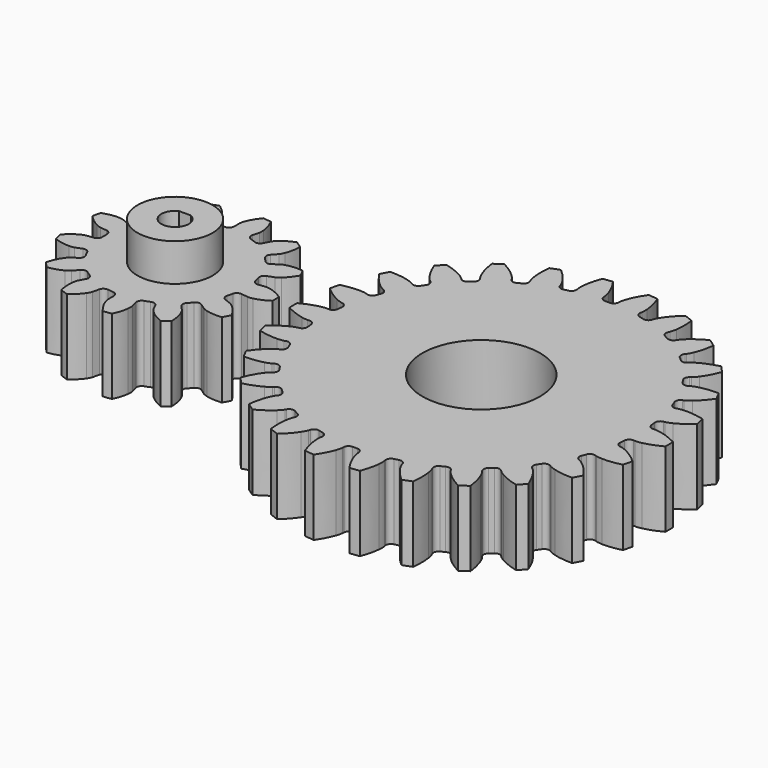
from build123d import *

# Parameters (mm, degrees)
PAD_DEPTH       = 14
SKETCH_R        = 7
PAD001_DEPTH    = 7
POCKET_DEPTH    = 25
PAD002_DEPTH    = 14
SKETCH003_R     = 10.95
POCKET002_DEPTH = 14


with BuildPart() as pocket:
    # InvoluteGear → Pad (new body)
    with BuildSketch(Plane.XY):
        with BuildLine():
            Line((13.902158, -1.898682), (15.169847, -2.069797))
            add(Edge.make_bspline(
                [(15.169847, -2.069797), (15.274932, -2.076474), (15.590573, -2.081535), (16.120308, -1.961703)],
                knots=[0, 0, 0, 0, 1, 1, 1, 1], degree=3))
            add(Edge.make_bspline(
                [(16.120308, -1.961703), (16.751481, -1.815558), (17.651998, -1.493243), (18.736578, -0.791187)],
                knots=[0, 0, 0, 0, 1, 1, 1, 1], degree=3))
            ThreePointArc((18.736578, -0.791187), (18.753278, 0), (18.736578, 0.791187))
            add(Edge.make_bspline(
                [(18.736578, 0.791187), (17.651998, 1.493243), (16.751481, 1.815558), (16.120308, 1.961703)],
                knots=[0, 0, 0, 0, 1, 1, 1, 1], degree=3))
            add(Edge.make_bspline(
                [(16.120308, 1.961703), (15.590573, 2.081535), (15.274932, 2.076474), (15.169847, 2.069797)],
                knots=[0, 0, 0, 0, 1, 1, 1, 1], degree=3))
            Line((15.169847, 2.069797), (13.902158, 1.898682))
            ThreePointArc((13.902158, 1.898682), (13.234191, 2.061979), (12.857334, 2.637153))
            ThreePointArc((12.857334, 2.637153), (12.743611, 3.141018), (12.61015, 3.640018))
            ThreePointArc((12.61015, 3.640018), (12.676544, 4.324444), (13.192112, 4.779455))
            Line((13.192112, 4.779455), (14.394116, 5.217065))
            add(Edge.make_bspline(
                [(14.394116, 5.217065), (14.490266, 5.259989), (14.772105, 5.402193), (15.185473, 5.754479)],
                knots=[0, 0, 0, 0, 1, 1, 1, 1], degree=3))
            add(Edge.make_bspline(
                [(15.185473, 5.754479), (15.676431, 6.177205), (16.324012, 6.881092), (16.958099, 8.006761)],
                knots=[0, 0, 0, 0, 1, 1, 1, 1], degree=3))
            ThreePointArc((16.958099, 8.006761), (16.605203, 8.715083), (16.222733, 9.407883))
            add(Edge.make_bspline(
                [(16.222733, 9.407883), (14.936123, 9.525493), (13.988968, 9.392398), (13.362175, 9.228483)],
                knots=[0, 0, 0, 0, 1, 1, 1, 1], degree=3))
            add(Edge.make_bspline(
                [(13.362175, 9.228483), (12.83743, 9.088409), (12.560295, 8.937241), (12.47035, 8.882494)],
                knots=[0, 0, 0, 0, 1, 1, 1, 1], degree=3))
            Line((12.47035, 8.882494), (11.427388, 8.141855))
            ThreePointArc((11.427388, 8.141855), (10.760045, 7.976027), (10.159058, 8.310184))
            ThreePointArc((10.159058, 8.310184), (9.824204, 8.703485), (9.474133, 9.083305))
            ThreePointArc((9.474133, 9.083305), (9.214853, 9.720188), (9.459911, 10.362677))
            Line((9.459911, 10.362677), (10.320865, 11.308761))
            add(Edge.make_bspline(
                [(10.320865, 11.308761), (10.386055, 11.391451), (10.569525, 11.648344), (10.771829, 12.152379)],
                knots=[0, 0, 0, 0, 1, 1, 1, 1], degree=3))
            add(Edge.make_bspline(
                [(10.771829, 12.152379), (11.0101, 12.754844), (11.256392, 13.679051), (11.294723, 14.970456)],
                knots=[0, 0, 0, 0, 1, 1, 1, 1], degree=3))
            ThreePointArc((11.294723, 14.970456), (10.653076, 15.433646), (9.992456, 15.869347))
            add(Edge.make_bspline(
                [(9.992456, 15.869347), (8.798563, 15.375568), (8.021751, 14.817553), (7.542929, 14.381128)],
                knots=[0, 0, 0, 0, 1, 1, 1, 1], degree=3))
            add(Edge.make_bspline(
                [(7.542929, 14.381128), (7.143385, 14.013237), (6.968246, 13.750594), (6.914046, 13.660319)],
                knots=[0, 0, 0, 0, 1, 1, 1, 1], degree=3))
            Line((6.914046, 13.660319), (6.334741, 12.519827))
            ThreePointArc((6.334741, 12.519827), (5.820902, 12.062863), (5.133464, 12.079452))
            ThreePointArc((5.133464, 12.079452), (4.654189, 12.272088), (4.167705, 12.445716))
            ThreePointArc((4.167705, 12.445716), (3.64215, 12.889155), (3.560559, 13.571935))
            Line((3.560559, 13.571935), (3.883229, 14.809756))
            add(Edge.make_bspline(
                [(3.883229, 14.809756), (3.902523, 14.913269), (3.945594, 15.225999), (3.890489, 15.766316)],
                knots=[0, 0, 0, 0, 1, 1, 1, 1], degree=3))
            add(Edge.make_bspline(
                [(3.890489, 15.766316), (3.821488, 16.410502), (3.610068, 17.343304), (3.043863, 18.5046)],
                knots=[0, 0, 0, 0, 1, 1, 1, 1], degree=3))
            ThreePointArc((3.043863, 18.5046), (2.260458, 18.616546), (1.473027, 18.695334))
            add(Edge.make_bspline(
                [(1.473027, 18.695334), (0.645358, 17.703285), (0.216848, 16.848185), (-0.004312, 16.23923)],
                knots=[0, 0, 0, 0, 1, 1, 1, 1], degree=3))
            add(Edge.make_bspline(
                [(-0.004312, 16.23923), (-0.187122, 15.727802), (-0.220144, 15.413852), (-0.226183, 15.308729)],
                knots=[0, 0, 0, 0, 1, 1, 1, 1], degree=3))
            Line((-0.226183, 15.308729), (-0.209119, 14.029657))
            ThreePointArc((-0.209119, 14.029657), (-0.451739, 13.386243), (-1.068145, 13.081464))
            ThreePointArc((-1.068145, 13.081464), (-1.582044, 13.029304), (-2.093493, 12.956964))
            ThreePointArc((-2.093493, 12.956964), (-2.764925, 13.105372), (-3.154474, 13.672026))
            Line((-3.154474, 13.672026), (-3.444008, 14.918014))
            add(Edge.make_bspline(
                [(-3.444008, 14.918014), (-3.475029, 15.018637), (-3.582224, 15.315562), (-3.882116, 15.76838)],
                knots=[0, 0, 0, 0, 1, 1, 1, 1], degree=3))
            add(Edge.make_bspline(
                [(-3.882116, 15.76838), (-4.242581, 16.306712), (-4.863279, 17.034416), (-5.90431, 17.799564)],
                knots=[0, 0, 0, 0, 1, 1, 1, 1], degree=3))
            ThreePointArc((-5.90431, 17.799564), (-6.650004, 17.53462), (-7.383854, 17.238446))
            add(Edge.make_bspline(
                [(-7.383854, 17.238446), (-7.655691, 15.975393), (-7.637733, 15.019101), (-7.550564, 14.377121)],
                knots=[0, 0, 0, 0, 1, 1, 1, 1], degree=3))
            add(Edge.make_bspline(
                [(-7.550564, 14.377121), (-7.474763, 13.839317), (-7.358102, 13.545982), (-7.314596, 13.450093)],
                knots=[0, 0, 0, 0, 1, 1, 1, 1], degree=3))
            Line((-7.314596, 13.450093), (-6.705072, 12.325462))
            ThreePointArc((-6.705072, 12.325462), (-6.620893, 11.642996), (-7.025054, 11.086669))
            ThreePointArc((-7.025054, 11.086669), (-7.45585, 10.801663), (-7.875097, 10.499927))
            ThreePointArc((-7.875097, 10.499927), (-8.538589, 10.319306), (-9.146856, 10.64002))
            Line((-9.146856, 10.64002), (-9.982264, 11.608735))
            add(Edge.make_bspline(
                [(-9.982264, 11.608735), (-10.056494, 11.683416), (-10.289399, 11.896514), (-10.765374, 12.158098)],
                knots=[0, 0, 0, 0, 1, 1, 1, 1], degree=3))
            add(Edge.make_bspline(
                [(-10.765374, 12.158098), (-11.334726, 12.467251), (-12.222507, 12.823148), (-13.499876, 13.016861)],
                knots=[0, 0, 0, 0, 1, 1, 1, 1], degree=3))
            ThreePointArc((-13.499876, 13.016861), (-14.03703, 12.435724), (-14.549184, 11.832438))
            add(Edge.make_bspline(
                [(-14.549184, 11.832438), (-14.202913, 10.587732), (-13.742601, 9.749322), (-13.367074, 9.221386)],
                knots=[0, 0, 0, 0, 1, 1, 1, 1], degree=3))
            add(Edge.make_bspline(
                [(-13.367074, 9.221386), (-13.050025, 8.780411), (-12.810407, 8.574891), (-12.727323, 8.510204)],
                knots=[0, 0, 0, 0, 1, 1, 1, 1], degree=3))
            Line((-12.727323, 8.510204), (-11.664974, 7.797652))
            ThreePointArc((-11.664974, 7.797652), (-11.273279, 7.232479), (-11.372609, 6.552053))
            ThreePointArc((-11.372609, 6.552053), (-11.62161, 6.099492), (-11.852612, 5.637483))
            ThreePointArc((-11.852612, 5.637483), (-12.356166, 5.169211), (-13.043802, 5.170514))
            Line((-13.043802, 5.170514), (-14.233704, 5.640035))
            add(Edge.make_bspline(
                [(-14.233704, 5.640035), (-14.334137, 5.671665), (-14.639396, 5.752118), (-15.182415, 5.762542)],
                knots=[0, 0, 0, 0, 1, 1, 1, 1], degree=3))
            add(Edge.make_bspline(
                [(-15.182415, 5.762542), (-15.830222, 5.771693), (-16.781706, 5.674251), (-18.002784, 5.252153)],
                knots=[0, 0, 0, 0, 1, 1, 1, 1], degree=3))
            ThreePointArc((-18.002784, 5.252153), (-18.208342, 4.487953), (-18.381471, 3.715761))
            add(Edge.make_bspline(
                [(-18.381471, 3.715761), (-17.496419, 2.774548), (-16.699204, 2.246091), (-16.121348, 1.953143)],
                knots=[0, 0, 0, 0, 1, 1, 1, 1], degree=3))
            add(Edge.make_bspline(
                [(-16.121348, 1.953143), (-15.635684, 1.710019), (-15.328003, 1.639395), (-15.224374, 1.620729)],
                knots=[0, 0, 0, 0, 1, 1, 1, 1], degree=3))
            Line((-15.224374, 1.620729), (-13.952571, 1.483494))
            ThreePointArc((-13.952571, 1.483494), (-13.343094, 1.165088), (-13.114836, 0.51644))
            ThreePointArc((-13.114836, 0.51644), (-13.125, 0), (-13.114836, -0.51644))
            ThreePointArc((-13.114836, -0.51644), (-13.343094, -1.165088), (-13.952571, -1.483494))
            Line((-13.952571, -1.483494), (-15.224374, -1.620729))
            add(Edge.make_bspline(
                [(-15.224374, -1.620729), (-15.328003, -1.639395), (-15.635684, -1.710019), (-16.121348, -1.953143)],
                knots=[0, 0, 0, 0, 1, 1, 1, 1], degree=3))
            add(Edge.make_bspline(
                [(-16.121348, -1.953143), (-16.699204, -2.246091), (-17.496419, -2.774548), (-18.381471, -3.715761)],
                knots=[0, 0, 0, 0, 1, 1, 1, 1], degree=3))
            ThreePointArc((-18.381471, -3.715761), (-18.208342, -4.487953), (-18.002784, -5.252153))
            add(Edge.make_bspline(
                [(-18.002784, -5.252153), (-16.781706, -5.674251), (-15.830222, -5.771693), (-15.182415, -5.762542)],
                knots=[0, 0, 0, 0, 1, 1, 1, 1], degree=3))
            add(Edge.make_bspline(
                [(-15.182415, -5.762542), (-14.639396, -5.752118), (-14.334137, -5.671665), (-14.233704, -5.640035)],
                knots=[0, 0, 0, 0, 1, 1, 1, 1], degree=3))
            Line((-14.233704, -5.640035), (-13.043802, -5.170514))
            ThreePointArc((-13.043802, -5.170514), (-12.356166, -5.169211), (-11.852612, -5.637483))
            ThreePointArc((-11.852612, -5.637483), (-11.62161, -6.099492), (-11.372609, -6.552053))
            ThreePointArc((-11.372609, -6.552053), (-11.273279, -7.232479), (-11.664974, -7.797652))
            Line((-11.664974, -7.797652), (-12.727323, -8.510204))
            add(Edge.make_bspline(
                [(-12.727323, -8.510204), (-12.810407, -8.574891), (-13.050025, -8.780411), (-13.367074, -9.221386)],
                knots=[0, 0, 0, 0, 1, 1, 1, 1], degree=3))
            add(Edge.make_bspline(
                [(-13.367074, -9.221386), (-13.742601, -9.749322), (-14.202913, -10.587732), (-14.549184, -11.832438)],
                knots=[0, 0, 0, 0, 1, 1, 1, 1], degree=3))
            ThreePointArc((-14.549184, -11.832438), (-14.03703, -12.435724), (-13.499876, -13.016861))
            add(Edge.make_bspline(
                [(-13.499876, -13.016861), (-12.222507, -12.823148), (-11.334726, -12.467251), (-10.765374, -12.158098)],
                knots=[0, 0, 0, 0, 1, 1, 1, 1], degree=3))
            add(Edge.make_bspline(
                [(-10.765374, -12.158098), (-10.289399, -11.896514), (-10.056494, -11.683416), (-9.982264, -11.608735)],
                knots=[0, 0, 0, 0, 1, 1, 1, 1], degree=3))
            Line((-9.982264, -11.608735), (-9.146856, -10.64002))
            ThreePointArc((-9.146856, -10.64002), (-8.538589, -10.319306), (-7.875097, -10.499927))
            ThreePointArc((-7.875097, -10.499927), (-7.45585, -10.801663), (-7.025054, -11.086669))
            ThreePointArc((-7.025054, -11.086669), (-6.620893, -11.642996), (-6.705072, -12.325462))
            Line((-6.705072, -12.325462), (-7.314596, -13.450093))
            add(Edge.make_bspline(
                [(-7.314596, -13.450093), (-7.358102, -13.545982), (-7.474763, -13.839317), (-7.550564, -14.377121)],
                knots=[0, 0, 0, 0, 1, 1, 1, 1], degree=3))
            add(Edge.make_bspline(
                [(-7.550564, -14.377121), (-7.637733, -15.019101), (-7.655691, -15.975393), (-7.383854, -17.238446)],
                knots=[0, 0, 0, 0, 1, 1, 1, 1], degree=3))
            ThreePointArc((-7.383854, -17.238446), (-6.650004, -17.53462), (-5.90431, -17.799564))
            add(Edge.make_bspline(
                [(-5.90431, -17.799564), (-4.863279, -17.034416), (-4.242581, -16.306712), (-3.882116, -15.76838)],
                knots=[0, 0, 0, 0, 1, 1, 1, 1], degree=3))
            add(Edge.make_bspline(
                [(-3.882116, -15.76838), (-3.582224, -15.315562), (-3.475029, -15.018637), (-3.444008, -14.918014)],
                knots=[0, 0, 0, 0, 1, 1, 1, 1], degree=3))
            Line((-3.444008, -14.918014), (-3.154474, -13.672026))
            ThreePointArc((-3.154474, -13.672026), (-2.764925, -13.105372), (-2.093493, -12.956964))
            ThreePointArc((-2.093493, -12.956964), (-1.582044, -13.029304), (-1.068145, -13.081464))
            ThreePointArc((-1.068145, -13.081464), (-0.451739, -13.386243), (-0.209119, -14.029657))
            Line((-0.209119, -14.029657), (-0.226183, -15.308729))
            add(Edge.make_bspline(
                [(-0.226183, -15.308729), (-0.220144, -15.413852), (-0.187122, -15.727802), (-0.004312, -16.23923)],
                knots=[0, 0, 0, 0, 1, 1, 1, 1], degree=3))
            add(Edge.make_bspline(
                [(-0.004312, -16.23923), (0.216848, -16.848185), (0.645358, -17.703285), (1.473027, -18.695334)],
                knots=[0, 0, 0, 0, 1, 1, 1, 1], degree=3))
            ThreePointArc((1.473027, -18.695334), (2.260458, -18.616546), (3.043863, -18.5046))
            add(Edge.make_bspline(
                [(3.043863, -18.5046), (3.610068, -17.343304), (3.821488, -16.410502), (3.890489, -15.766316)],
                knots=[0, 0, 0, 0, 1, 1, 1, 1], degree=3))
            add(Edge.make_bspline(
                [(3.890489, -15.766316), (3.945594, -15.225999), (3.902523, -14.913269), (3.883229, -14.809756)],
                knots=[0, 0, 0, 0, 1, 1, 1, 1], degree=3))
            Line((3.883229, -14.809756), (3.560559, -13.571935))
            ThreePointArc((3.560559, -13.571935), (3.64215, -12.889155), (4.167705, -12.445716))
            ThreePointArc((4.167705, -12.445716), (4.654189, -12.272088), (5.133464, -12.079452))
            ThreePointArc((5.133464, -12.079452), (5.820902, -12.062863), (6.334741, -12.519827))
            Line((6.334741, -12.519827), (6.914046, -13.660319))
            add(Edge.make_bspline(
                [(6.914046, -13.660319), (6.968246, -13.750594), (7.143385, -14.013237), (7.542929, -14.381128)],
                knots=[0, 0, 0, 0, 1, 1, 1, 1], degree=3))
            add(Edge.make_bspline(
                [(7.542929, -14.381128), (8.021751, -14.817553), (8.798563, -15.375568), (9.992456, -15.869347)],
                knots=[0, 0, 0, 0, 1, 1, 1, 1], degree=3))
            ThreePointArc((9.992456, -15.869347), (10.653076, -15.433646), (11.294723, -14.970456))
            add(Edge.make_bspline(
                [(11.294723, -14.970456), (11.256392, -13.679051), (11.0101, -12.754844), (10.771829, -12.152379)],
                knots=[0, 0, 0, 0, 1, 1, 1, 1], degree=3))
            add(Edge.make_bspline(
                [(10.771829, -12.152379), (10.569525, -11.648344), (10.386055, -11.391451), (10.320865, -11.308761)],
                knots=[0, 0, 0, 0, 1, 1, 1, 1], degree=3))
            Line((10.320865, -11.308761), (9.459911, -10.362677))
            ThreePointArc((9.459911, -10.362677), (9.214853, -9.720188), (9.474133, -9.083305))
            ThreePointArc((9.474133, -9.083305), (9.824204, -8.703485), (10.159058, -8.310184))
            ThreePointArc((10.159058, -8.310184), (10.760045, -7.976027), (11.427388, -8.141855))
            Line((11.427388, -8.141855), (12.47035, -8.882494))
            add(Edge.make_bspline(
                [(12.47035, -8.882494), (12.560295, -8.937241), (12.83743, -9.088409), (13.362175, -9.228483)],
                knots=[0, 0, 0, 0, 1, 1, 1, 1], degree=3))
            add(Edge.make_bspline(
                [(13.362175, -9.228483), (13.988968, -9.392398), (14.936123, -9.525493), (16.222733, -9.407883)],
                knots=[0, 0, 0, 0, 1, 1, 1, 1], degree=3))
            ThreePointArc((16.222733, -9.407883), (16.605203, -8.715083), (16.958099, -8.006761))
            add(Edge.make_bspline(
                [(16.958099, -8.006761), (16.324012, -6.881092), (15.676431, -6.177205), (15.185473, -5.754479)],
                knots=[0, 0, 0, 0, 1, 1, 1, 1], degree=3))
            add(Edge.make_bspline(
                [(15.185473, -5.754479), (14.772105, -5.402193), (14.490266, -5.259989), (14.394116, -5.217065)],
                knots=[0, 0, 0, 0, 1, 1, 1, 1], degree=3))
            Line((14.394116, -5.217065), (13.192112, -4.779455))
            ThreePointArc((13.192112, -4.779455), (12.676544, -4.324444), (12.61015, -3.640018))
            ThreePointArc((12.61015, -3.640018), (12.743611, -3.141018), (12.857334, -2.637153))
            ThreePointArc((12.857334, -2.637153), (13.234191, -2.061979), (13.902158, -1.898682))
        make_face()
    extrude(amount=PAD_DEPTH)

    # Sketch → Pad001 (new body)
    with BuildSketch(Plane.XY.offset(14)):
        Circle(SKETCH_R)
    extrude(amount=PAD001_DEPTH)

    # Sketch001 → Pocket (cut)
    with BuildSketch(Plane.XY.offset(21)):
        with BuildLine():
            ThreePointArc((-1.101136, 2.3), (0, -2.55), (1.101136, 2.3))
            Line((-1.101136, 2.3), (1.101136, 2.3))
        make_face()
    extrude(amount=-POCKET_DEPTH, mode=Mode.SUBTRACT)


with BuildPart() as pocket002:
    # InvoluteGear001 → Pad002 (new body)
    with BuildSketch(Plane(origin=(57, 0, 0), x_dir=(1, 0, 0), z_dir=(0, 0, 1))):
        with BuildLine():
            Line((30.212099, -2.279877), (30.502529, -2.299907))
            add(Edge.make_bspline(
                [(30.502529, -2.299907), (30.632497, -2.302355), (31.024091, -2.295099), (31.676261, -2.158069)],
                knots=[0, 0, 0, 0, 1, 1, 1, 1], degree=3))
            add(Edge.make_bspline(
                [(31.676261, -2.158069), (32.457678, -1.991856), (33.586555, -1.640863), (34.990904, -0.903734)],
                knots=[0, 0, 0, 0, 1, 1, 1, 1], degree=3))
            ThreePointArc((34.990904, -0.903734), (35.002573, 0), (34.990904, 0.903734))
            add(Edge.make_bspline(
                [(34.990904, 0.903734), (33.586555, 1.640863), (32.457678, 1.991856), (31.676261, 2.158069)],
                knots=[0, 0, 0, 0, 1, 1, 1, 1], degree=3))
            add(Edge.make_bspline(
                [(31.676261, 2.158069), (31.024091, 2.295099), (30.632497, 2.302355), (30.502529, 2.299907)],
                knots=[0, 0, 0, 0, 1, 1, 1, 1], degree=3))
            Line((30.502529, 2.299907), (30.212099, 2.279877))
            ThreePointArc((30.212099, 2.279877), (29.541638, 2.494297), (29.209386, 3.114863))
            ThreePointArc((29.209386, 3.114863), (29.160823, 3.540765), (29.10605, 3.965913))
            ThreePointArc((29.10605, 3.965913), (29.280136, 4.64796), (29.8798, 5.016601))
            Line((29.8798, 5.016601), (30.166584, 5.066657))
            add(Edge.make_bspline(
                [(30.166584, 5.066657), (30.293362, 5.095384), (30.67184, 5.196144), (31.272266, 5.485266)],
                knots=[0, 0, 0, 0, 1, 1, 1, 1], degree=3))
            add(Edge.make_bspline(
                [(31.272266, 5.485266), (31.991199, 5.833654), (33.003274, 6.444606), (34.190409, 7.496398)],
                knots=[0, 0, 0, 0, 1, 1, 1, 1], degree=3))
            ThreePointArc((34.190409, 7.496398), (33.985462, 8.376664), (33.757854, 9.251344))
            add(Edge.make_bspline(
                [(33.757854, 9.251344), (32.217906, 9.630971), (31.037834, 9.701607), (30.239346, 9.675985)],
                knots=[0, 0, 0, 0, 1, 1, 1, 1], degree=3))
            add(Edge.make_bspline(
                [(30.239346, 9.675985), (29.573334, 9.652958), (29.191383, 9.566289), (29.065777, 9.532808)],
                knots=[0, 0, 0, 0, 1, 1, 1, 1], degree=3))
            Line((29.065777, 9.532808), (28.78858, 9.443856))
            ThreePointArc((28.78858, 9.443856), (28.086288, 9.491594), (27.615179, 10.014614))
            ThreePointArc((27.615179, 10.014614), (27.466102, 10.416519), (27.311176, 10.816205))
            ThreePointArc((27.311176, 10.816205), (27.316979, 11.520094), (27.810997, 12.021532))
            Line((27.810997, 12.021532), (28.077468, 12.138766))
            add(Edge.make_bspline(
                [(28.077468, 12.138766), (28.193687, 12.196997), (28.537054, 12.385405), (29.050841, 12.809817)],
                knots=[0, 0, 0, 0, 1, 1, 1, 1], degree=3))
            add(Edge.make_bspline(
                [(29.050841, 12.809817), (29.665508, 13.320134), (30.501964, 14.155538), (31.402893, 15.460867)],
                knots=[0, 0, 0, 0, 1, 1, 1, 1], degree=3))
            ThreePointArc((31.402893, 15.460867), (30.99324, 16.266507), (30.56292, 17.0613))
            add(Edge.make_bspline(
                [(30.56292, 17.0613), (28.97687, 17.061362), (27.814185, 16.847536), (27.045031, 16.631567)],
                knots=[0, 0, 0, 0, 1, 1, 1, 1], degree=3))
            add(Edge.make_bspline(
                [(27.045031, 16.631567), (26.403883, 16.449823), (26.053772, 16.274265), (25.939828, 16.211698)],
                knots=[0, 0, 0, 0, 1, 1, 1, 1], degree=3))
            Line((25.939828, 16.211698), (25.691973, 16.058993))
            ThreePointArc((25.691973, 16.058993), (24.998664, 15.937274), (24.416078, 16.332353))
            ThreePointArc((24.416078, 16.332353), (24.175151, 16.686902), (23.929076, 17.037898))
            ThreePointArc((23.929076, 17.037898), (23.766258, 17.722722), (24.125919, 18.327815))
            Line((24.125919, 18.327815), (24.356591, 18.505413))
            add(Edge.make_bspline(
                [(24.356591, 18.505413), (24.455497, 18.589766), (24.743798, 18.854872), (25.141086, 19.389909)],
                knots=[0, 0, 0, 0, 1, 1, 1, 1], degree=3))
            add(Edge.make_bspline(
                [(25.141086, 19.389909), (25.615766, 20.032496), (26.22799, 21.043802), (26.790354, 22.526807)],
                knots=[0, 0, 0, 0, 1, 1, 1, 1], degree=3))
            ThreePointArc((26.790354, 22.526807), (26.199802, 23.211), (25.591781, 23.879716))
            add(Edge.make_bspline(
                [(25.591781, 23.879716), (24.051804, 23.500209), (22.974076, 23.014347), (22.278957, 22.620584)],
                knots=[0, 0, 0, 0, 1, 1, 1, 1], degree=3))
            add(Edge.make_bspline(
                [(22.278957, 22.620584), (21.699934, 22.290684), (21.40201, 22.03644), (21.30635, 21.948423)],
                knots=[0, 0, 0, 0, 1, 1, 1, 1], degree=3))
            Line((21.30635, 21.948423), (21.102243, 21.74084))
            ThreePointArc((21.102243, 21.74084), (20.458209, 21.456738), (19.798004, 21.700914))
            ThreePointArc((19.798004, 21.700914), (19.479228, 21.987503), (19.156304, 22.26941))
            ThreePointArc((19.156304, 22.26941), (18.834329, 22.89537), (19.03873, 23.568952))
            Line((19.03873, 23.568952), (19.220197, 23.796593))
            add(Edge.make_bspline(
                [(19.220197, 23.796593), (19.296043, 23.902165), (19.512522, 24.228562), (19.770223, 24.843129)],
                knots=[0, 0, 0, 0, 1, 1, 1, 1], degree=3))
            add(Edge.make_bspline(
                [(19.770223, 24.843129), (20.077328, 25.580642), (20.429741, 26.709076), (20.620857, 28.28357)],
                knots=[0, 0, 0, 0, 1, 1, 1, 1], degree=3))
            ThreePointArc((20.620857, 28.28357), (19.883728, 28.806553), (19.13334, 29.310329))
            add(Edge.make_bspline(
                [(19.13334, 29.310329), (17.728934, 28.573309), (16.798797, 27.843649), (16.218111, 27.294974)],
                knots=[0, 0, 0, 0, 1, 1, 1, 1], degree=3))
            add(Edge.make_bspline(
                [(16.218111, 27.294974), (15.734863, 26.836091), (15.506441, 26.517938), (15.434625, 26.409585)],
                knots=[0, 0, 0, 0, 1, 1, 1, 1], degree=3))
            Line((15.434625, 26.409585), (15.286126, 26.159188))
            ThreePointArc((15.286126, 26.159188), (14.728797, 25.729214), (14.029341, 25.808297))
            ThreePointArc((14.029341, 25.808297), (13.651243, 26.010271), (13.270238, 26.206705))
            ThreePointArc((13.270238, 26.206705), (12.807817, 26.737422), (12.84508, 27.440348))
            Line((12.84508, 27.440348), (12.966796, 27.704802))
            add(Edge.make_bspline(
                [(12.966796, 27.704802), (13.015172, 27.825456), (13.147249, 28.194176), (13.250386, 28.852557)],
                knots=[0, 0, 0, 0, 1, 1, 1, 1], degree=3))
            add(Edge.make_bspline(
                [(13.250386, 28.852557), (13.372069, 29.642134), (13.44419, 30.822116), (13.252951, 32.396595)],
                knots=[0, 0, 0, 0, 1, 1, 1, 1], degree=3))
            ThreePointArc((13.252951, 32.396595), (12.412084, 32.727975), (11.56294, 33.037532))
            add(Edge.make_bspline(
                [(11.56294, 33.037532), (10.375723, 31.985832), (9.647233, 31.054778), (9.214727, 30.38308)],
                knots=[0, 0, 0, 0, 1, 1, 1, 1], degree=3))
            add(Edge.make_bspline(
                [(9.214727, 30.38308), (8.85534, 29.821882), (8.709694, 29.458309), (8.665896, 29.335918)],
                knots=[0, 0, 0, 0, 1, 1, 1, 1], degree=3))
            Line((8.665896, 29.335918), (8.581636, 29.057259))
            ThreePointArc((8.581636, 29.057259), (8.143401, 28.506401), (7.445344, 28.415796))
            ThreePointArc((7.445344, 28.415796), (7.029898, 28.521416), (6.612954, 28.620962))
            ThreePointArc((6.612954, 28.620962), (6.036962, 29.025592), (5.90492, 29.71701))
            Line((5.90492, 29.71701), (5.959811, 30.002908))
            add(Edge.make_bspline(
                [(5.959811, 30.002908), (5.977908, 30.131634), (6.017906, 30.521247), (5.960485, 31.185179)],
                knots=[0, 0, 0, 0, 1, 1, 1, 1], degree=3))
            add(Edge.make_bspline(
                [(5.960485, 31.185179), (5.889674, 31.980933), (5.677311, 33.143887), (5.114832, 34.626848)],
                knots=[0, 0, 0, 0, 1, 1, 1, 1], degree=3))
            ThreePointArc((5.114832, 34.626848), (4.219094, 34.747365), (3.320543, 34.844714))
            add(Edge.make_bspline(
                [(3.320543, 34.844714), (2.419513, 33.539455), (1.935007, 32.461117), (1.675817, 31.705432)],
                knots=[0, 0, 0, 0, 1, 1, 1, 1], degree=3))
            add(Edge.make_bspline(
                [(1.675817, 31.705432), (1.461176, 31.074534), (1.406771, 30.68667), (1.393536, 30.557354)],
                knots=[0, 0, 0, 0, 1, 1, 1, 1], degree=3))
            Line((1.393536, 30.557354), (1.378412, 30.266627))
            ThreePointArc((1.378412, 30.266627), (1.08474, 29.626901), (0.428651, 29.371872))
            ThreePointArc((0.428651, 29.371872), (0, 29.375), (-0.428651, 29.371872))
            ThreePointArc((-0.428651, 29.371872), (-1.08474, 29.626901), (-1.378412, 30.266627))
            Line((-1.378412, 30.266627), (-1.393536, 30.557354))
            add(Edge.make_bspline(
                [(-1.393536, 30.557354), (-1.406771, 30.68667), (-1.461176, 31.074534), (-1.675817, 31.705432)],
                knots=[0, 0, 0, 0, 1, 1, 1, 1], degree=3))
            add(Edge.make_bspline(
                [(-1.675817, 31.705432), (-1.935007, 32.461117), (-2.419513, 33.539455), (-3.320543, 34.844714)],
                knots=[0, 0, 0, 0, 1, 1, 1, 1], degree=3))
            ThreePointArc((-3.320543, 34.844714), (-4.219094, 34.747365), (-5.114832, 34.626848))
            add(Edge.make_bspline(
                [(-5.114832, 34.626848), (-5.677311, 33.143887), (-5.889674, 31.980933), (-5.960485, 31.185179)],
                knots=[0, 0, 0, 0, 1, 1, 1, 1], degree=3))
            add(Edge.make_bspline(
                [(-5.960485, 31.185179), (-6.017906, 30.521247), (-5.977908, 30.131634), (-5.959811, 30.002908)],
                knots=[0, 0, 0, 0, 1, 1, 1, 1], degree=3))
            Line((-5.959811, 30.002908), (-5.90492, 29.71701))
            ThreePointArc((-5.90492, 29.71701), (-6.036962, 29.025592), (-6.612954, 28.620962))
            ThreePointArc((-6.612954, 28.620962), (-7.029898, 28.521416), (-7.445344, 28.415796))
            ThreePointArc((-7.445344, 28.415796), (-8.143401, 28.506401), (-8.581636, 29.057259))
            Line((-8.581636, 29.057259), (-8.665896, 29.335918))
            add(Edge.make_bspline(
                [(-8.665896, 29.335918), (-8.709694, 29.458309), (-8.85534, 29.821882), (-9.214727, 30.38308)],
                knots=[0, 0, 0, 0, 1, 1, 1, 1], degree=3))
            add(Edge.make_bspline(
                [(-9.214727, 30.38308), (-9.647233, 31.054778), (-10.375723, 31.985832), (-11.56294, 33.037532)],
                knots=[0, 0, 0, 0, 1, 1, 1, 1], degree=3))
            ThreePointArc((-11.56294, 33.037532), (-12.412084, 32.727975), (-13.252951, 32.396595))
            add(Edge.make_bspline(
                [(-13.252951, 32.396595), (-13.44419, 30.822116), (-13.372069, 29.642134), (-13.250386, 28.852557)],
                knots=[0, 0, 0, 0, 1, 1, 1, 1], degree=3))
            add(Edge.make_bspline(
                [(-13.250386, 28.852557), (-13.147249, 28.194176), (-13.015172, 27.825456), (-12.966796, 27.704802)],
                knots=[0, 0, 0, 0, 1, 1, 1, 1], degree=3))
            Line((-12.966796, 27.704802), (-12.84508, 27.440348))
            ThreePointArc((-12.84508, 27.440348), (-12.807817, 26.737422), (-13.270238, 26.206705))
            ThreePointArc((-13.270238, 26.206705), (-13.651243, 26.010271), (-14.029341, 25.808297))
            ThreePointArc((-14.029341, 25.808297), (-14.728797, 25.729214), (-15.286126, 26.159188))
            Line((-15.286126, 26.159188), (-15.434625, 26.409585))
            add(Edge.make_bspline(
                [(-15.434625, 26.409585), (-15.506441, 26.517938), (-15.734863, 26.836091), (-16.218111, 27.294974)],
                knots=[0, 0, 0, 0, 1, 1, 1, 1], degree=3))
            add(Edge.make_bspline(
                [(-16.218111, 27.294974), (-16.798797, 27.843649), (-17.728934, 28.573309), (-19.13334, 29.310329)],
                knots=[0, 0, 0, 0, 1, 1, 1, 1], degree=3))
            ThreePointArc((-19.13334, 29.310329), (-19.883728, 28.806553), (-20.620857, 28.28357))
            add(Edge.make_bspline(
                [(-20.620857, 28.28357), (-20.429741, 26.709076), (-20.077328, 25.580642), (-19.770223, 24.843129)],
                knots=[0, 0, 0, 0, 1, 1, 1, 1], degree=3))
            add(Edge.make_bspline(
                [(-19.770223, 24.843129), (-19.512522, 24.228562), (-19.296043, 23.902165), (-19.220197, 23.796593)],
                knots=[0, 0, 0, 0, 1, 1, 1, 1], degree=3))
            Line((-19.220197, 23.796593), (-19.03873, 23.568952))
            ThreePointArc((-19.03873, 23.568952), (-18.834329, 22.89537), (-19.156304, 22.26941))
            ThreePointArc((-19.156304, 22.26941), (-19.479228, 21.987503), (-19.798004, 21.700914))
            ThreePointArc((-19.798004, 21.700914), (-20.458209, 21.456738), (-21.102243, 21.74084))
            Line((-21.102243, 21.74084), (-21.30635, 21.948423))
            add(Edge.make_bspline(
                [(-21.30635, 21.948423), (-21.40201, 22.03644), (-21.699934, 22.290684), (-22.278957, 22.620584)],
                knots=[0, 0, 0, 0, 1, 1, 1, 1], degree=3))
            add(Edge.make_bspline(
                [(-22.278957, 22.620584), (-22.974076, 23.014347), (-24.051804, 23.500209), (-25.591781, 23.879716)],
                knots=[0, 0, 0, 0, 1, 1, 1, 1], degree=3))
            ThreePointArc((-25.591781, 23.879716), (-26.199802, 23.211), (-26.790354, 22.526807))
            add(Edge.make_bspline(
                [(-26.790354, 22.526807), (-26.22799, 21.043802), (-25.615766, 20.032496), (-25.141086, 19.389909)],
                knots=[0, 0, 0, 0, 1, 1, 1, 1], degree=3))
            add(Edge.make_bspline(
                [(-25.141086, 19.389909), (-24.743798, 18.854872), (-24.455497, 18.589766), (-24.356591, 18.505413)],
                knots=[0, 0, 0, 0, 1, 1, 1, 1], degree=3))
            Line((-24.356591, 18.505413), (-24.125919, 18.327815))
            ThreePointArc((-24.125919, 18.327815), (-23.766258, 17.722722), (-23.929076, 17.037898))
            ThreePointArc((-23.929076, 17.037898), (-24.175151, 16.686902), (-24.416078, 16.332353))
            ThreePointArc((-24.416078, 16.332353), (-24.998664, 15.937274), (-25.691973, 16.058993))
            Line((-25.691973, 16.058993), (-25.939828, 16.211698))
            add(Edge.make_bspline(
                [(-25.939828, 16.211698), (-26.053772, 16.274265), (-26.403883, 16.449823), (-27.045031, 16.631567)],
                knots=[0, 0, 0, 0, 1, 1, 1, 1], degree=3))
            add(Edge.make_bspline(
                [(-27.045031, 16.631567), (-27.814185, 16.847536), (-28.97687, 17.061362), (-30.56292, 17.0613)],
                knots=[0, 0, 0, 0, 1, 1, 1, 1], degree=3))
            ThreePointArc((-30.56292, 17.0613), (-30.99324, 16.266507), (-31.402893, 15.460867))
            add(Edge.make_bspline(
                [(-31.402893, 15.460867), (-30.501964, 14.155538), (-29.665508, 13.320134), (-29.050841, 12.809817)],
                knots=[0, 0, 0, 0, 1, 1, 1, 1], degree=3))
            add(Edge.make_bspline(
                [(-29.050841, 12.809817), (-28.537054, 12.385405), (-28.193687, 12.196997), (-28.077468, 12.138766)],
                knots=[0, 0, 0, 0, 1, 1, 1, 1], degree=3))
            Line((-28.077468, 12.138766), (-27.810997, 12.021532))
            ThreePointArc((-27.810997, 12.021532), (-27.316979, 11.520094), (-27.311176, 10.816205))
            ThreePointArc((-27.311176, 10.816205), (-27.466102, 10.416519), (-27.615179, 10.014614))
            ThreePointArc((-27.615179, 10.014614), (-28.086288, 9.491594), (-28.78858, 9.443856))
            Line((-28.78858, 9.443856), (-29.065777, 9.532808))
            add(Edge.make_bspline(
                [(-29.065777, 9.532808), (-29.191383, 9.566289), (-29.573334, 9.652958), (-30.239346, 9.675985)],
                knots=[0, 0, 0, 0, 1, 1, 1, 1], degree=3))
            add(Edge.make_bspline(
                [(-30.239346, 9.675985), (-31.037834, 9.701607), (-32.217906, 9.630971), (-33.757854, 9.251344)],
                knots=[0, 0, 0, 0, 1, 1, 1, 1], degree=3))
            ThreePointArc((-33.757854, 9.251344), (-33.985462, 8.376664), (-34.190409, 7.496398))
            add(Edge.make_bspline(
                [(-34.190409, 7.496398), (-33.003274, 6.444606), (-31.991199, 5.833654), (-31.272266, 5.485266)],
                knots=[0, 0, 0, 0, 1, 1, 1, 1], degree=3))
            add(Edge.make_bspline(
                [(-31.272266, 5.485266), (-30.67184, 5.196144), (-30.293362, 5.095384), (-30.166584, 5.066657)],
                knots=[0, 0, 0, 0, 1, 1, 1, 1], degree=3))
            Line((-30.166584, 5.066657), (-29.8798, 5.016601))
            ThreePointArc((-29.8798, 5.016601), (-29.280136, 4.64796), (-29.10605, 3.965913))
            ThreePointArc((-29.10605, 3.965913), (-29.160823, 3.540765), (-29.209386, 3.114863))
            ThreePointArc((-29.209386, 3.114863), (-29.541638, 2.494297), (-30.212099, 2.279877))
            Line((-30.212099, 2.279877), (-30.502529, 2.299907))
            add(Edge.make_bspline(
                [(-30.502529, 2.299907), (-30.632497, 2.302355), (-31.024091, 2.295099), (-31.676261, 2.158069)],
                knots=[0, 0, 0, 0, 1, 1, 1, 1], degree=3))
            add(Edge.make_bspline(
                [(-31.676261, 2.158069), (-32.457678, 1.991856), (-33.586555, 1.640863), (-34.990904, 0.903734)],
                knots=[0, 0, 0, 0, 1, 1, 1, 1], degree=3))
            ThreePointArc((-34.990904, 0.903734), (-35.002573, 0), (-34.990904, -0.903734))
            add(Edge.make_bspline(
                [(-34.990904, -0.903734), (-33.586555, -1.640863), (-32.457678, -1.991856), (-31.676261, -2.158069)],
                knots=[0, 0, 0, 0, 1, 1, 1, 1], degree=3))
            add(Edge.make_bspline(
                [(-31.676261, -2.158069), (-31.024091, -2.295099), (-30.632497, -2.302355), (-30.502529, -2.299907)],
                knots=[0, 0, 0, 0, 1, 1, 1, 1], degree=3))
            Line((-30.502529, -2.299907), (-30.212099, -2.279877))
            ThreePointArc((-30.212099, -2.279877), (-29.541638, -2.494297), (-29.209386, -3.114863))
            ThreePointArc((-29.209386, -3.114863), (-29.160823, -3.540765), (-29.10605, -3.965913))
            ThreePointArc((-29.10605, -3.965913), (-29.280136, -4.64796), (-29.8798, -5.016601))
            Line((-29.8798, -5.016601), (-30.166584, -5.066657))
            add(Edge.make_bspline(
                [(-30.166584, -5.066657), (-30.293362, -5.095384), (-30.67184, -5.196144), (-31.272266, -5.485266)],
                knots=[0, 0, 0, 0, 1, 1, 1, 1], degree=3))
            add(Edge.make_bspline(
                [(-31.272266, -5.485266), (-31.991199, -5.833654), (-33.003274, -6.444606), (-34.190409, -7.496398)],
                knots=[0, 0, 0, 0, 1, 1, 1, 1], degree=3))
            ThreePointArc((-34.190409, -7.496398), (-33.985462, -8.376664), (-33.757854, -9.251344))
            add(Edge.make_bspline(
                [(-33.757854, -9.251344), (-32.217906, -9.630971), (-31.037834, -9.701607), (-30.239346, -9.675985)],
                knots=[0, 0, 0, 0, 1, 1, 1, 1], degree=3))
            add(Edge.make_bspline(
                [(-30.239346, -9.675985), (-29.573334, -9.652958), (-29.191383, -9.566289), (-29.065777, -9.532808)],
                knots=[0, 0, 0, 0, 1, 1, 1, 1], degree=3))
            Line((-29.065777, -9.532808), (-28.78858, -9.443856))
            ThreePointArc((-28.78858, -9.443856), (-28.086288, -9.491594), (-27.615179, -10.014614))
            ThreePointArc((-27.615179, -10.014614), (-27.466102, -10.416519), (-27.311176, -10.816205))
            ThreePointArc((-27.311176, -10.816205), (-27.316979, -11.520094), (-27.810997, -12.021532))
            Line((-27.810997, -12.021532), (-28.077468, -12.138766))
            add(Edge.make_bspline(
                [(-28.077468, -12.138766), (-28.193687, -12.196997), (-28.537054, -12.385405), (-29.050841, -12.809817)],
                knots=[0, 0, 0, 0, 1, 1, 1, 1], degree=3))
            add(Edge.make_bspline(
                [(-29.050841, -12.809817), (-29.665508, -13.320134), (-30.501964, -14.155538), (-31.402893, -15.460867)],
                knots=[0, 0, 0, 0, 1, 1, 1, 1], degree=3))
            ThreePointArc((-31.402893, -15.460867), (-30.99324, -16.266507), (-30.56292, -17.0613))
            add(Edge.make_bspline(
                [(-30.56292, -17.0613), (-28.97687, -17.061362), (-27.814185, -16.847536), (-27.045031, -16.631567)],
                knots=[0, 0, 0, 0, 1, 1, 1, 1], degree=3))
            add(Edge.make_bspline(
                [(-27.045031, -16.631567), (-26.403883, -16.449823), (-26.053772, -16.274265), (-25.939828, -16.211698)],
                knots=[0, 0, 0, 0, 1, 1, 1, 1], degree=3))
            Line((-25.939828, -16.211698), (-25.691973, -16.058993))
            ThreePointArc((-25.691973, -16.058993), (-24.998664, -15.937274), (-24.416078, -16.332353))
            ThreePointArc((-24.416078, -16.332353), (-24.175151, -16.686902), (-23.929076, -17.037898))
            ThreePointArc((-23.929076, -17.037898), (-23.766258, -17.722722), (-24.125919, -18.327815))
            Line((-24.125919, -18.327815), (-24.356591, -18.505413))
            add(Edge.make_bspline(
                [(-24.356591, -18.505413), (-24.455497, -18.589766), (-24.743798, -18.854872), (-25.141086, -19.389909)],
                knots=[0, 0, 0, 0, 1, 1, 1, 1], degree=3))
            add(Edge.make_bspline(
                [(-25.141086, -19.389909), (-25.615766, -20.032496), (-26.22799, -21.043802), (-26.790354, -22.526807)],
                knots=[0, 0, 0, 0, 1, 1, 1, 1], degree=3))
            ThreePointArc((-26.790354, -22.526807), (-26.199802, -23.211), (-25.591781, -23.879716))
            add(Edge.make_bspline(
                [(-25.591781, -23.879716), (-24.051804, -23.500209), (-22.974076, -23.014347), (-22.278957, -22.620584)],
                knots=[0, 0, 0, 0, 1, 1, 1, 1], degree=3))
            add(Edge.make_bspline(
                [(-22.278957, -22.620584), (-21.699934, -22.290684), (-21.40201, -22.03644), (-21.30635, -21.948423)],
                knots=[0, 0, 0, 0, 1, 1, 1, 1], degree=3))
            Line((-21.30635, -21.948423), (-21.102243, -21.74084))
            ThreePointArc((-21.102243, -21.74084), (-20.458209, -21.456738), (-19.798004, -21.700914))
            ThreePointArc((-19.798004, -21.700914), (-19.479228, -21.987503), (-19.156304, -22.26941))
            ThreePointArc((-19.156304, -22.26941), (-18.834329, -22.89537), (-19.03873, -23.568952))
            Line((-19.03873, -23.568952), (-19.220197, -23.796593))
            add(Edge.make_bspline(
                [(-19.220197, -23.796593), (-19.296043, -23.902165), (-19.512522, -24.228562), (-19.770223, -24.843129)],
                knots=[0, 0, 0, 0, 1, 1, 1, 1], degree=3))
            add(Edge.make_bspline(
                [(-19.770223, -24.843129), (-20.077328, -25.580642), (-20.429741, -26.709076), (-20.620857, -28.28357)],
                knots=[0, 0, 0, 0, 1, 1, 1, 1], degree=3))
            ThreePointArc((-20.620857, -28.28357), (-19.883728, -28.806553), (-19.13334, -29.310329))
            add(Edge.make_bspline(
                [(-19.13334, -29.310329), (-17.728934, -28.573309), (-16.798797, -27.843649), (-16.218111, -27.294974)],
                knots=[0, 0, 0, 0, 1, 1, 1, 1], degree=3))
            add(Edge.make_bspline(
                [(-16.218111, -27.294974), (-15.734863, -26.836091), (-15.506441, -26.517938), (-15.434625, -26.409585)],
                knots=[0, 0, 0, 0, 1, 1, 1, 1], degree=3))
            Line((-15.434625, -26.409585), (-15.286126, -26.159188))
            ThreePointArc((-15.286126, -26.159188), (-14.728797, -25.729214), (-14.029341, -25.808297))
            ThreePointArc((-14.029341, -25.808297), (-13.651243, -26.010271), (-13.270238, -26.206705))
            ThreePointArc((-13.270238, -26.206705), (-12.807817, -26.737422), (-12.84508, -27.440348))
            Line((-12.84508, -27.440348), (-12.966796, -27.704802))
            add(Edge.make_bspline(
                [(-12.966796, -27.704802), (-13.015172, -27.825456), (-13.147249, -28.194176), (-13.250386, -28.852557)],
                knots=[0, 0, 0, 0, 1, 1, 1, 1], degree=3))
            add(Edge.make_bspline(
                [(-13.250386, -28.852557), (-13.372069, -29.642134), (-13.44419, -30.822116), (-13.252951, -32.396595)],
                knots=[0, 0, 0, 0, 1, 1, 1, 1], degree=3))
            ThreePointArc((-13.252951, -32.396595), (-12.412084, -32.727975), (-11.56294, -33.037532))
            add(Edge.make_bspline(
                [(-11.56294, -33.037532), (-10.375723, -31.985832), (-9.647233, -31.054778), (-9.214727, -30.38308)],
                knots=[0, 0, 0, 0, 1, 1, 1, 1], degree=3))
            add(Edge.make_bspline(
                [(-9.214727, -30.38308), (-8.85534, -29.821882), (-8.709694, -29.458309), (-8.665896, -29.335918)],
                knots=[0, 0, 0, 0, 1, 1, 1, 1], degree=3))
            Line((-8.665896, -29.335918), (-8.581636, -29.057259))
            ThreePointArc((-8.581636, -29.057259), (-8.143401, -28.506401), (-7.445344, -28.415796))
            ThreePointArc((-7.445344, -28.415796), (-7.029898, -28.521416), (-6.612954, -28.620962))
            ThreePointArc((-6.612954, -28.620962), (-6.036962, -29.025592), (-5.90492, -29.71701))
            Line((-5.90492, -29.71701), (-5.959811, -30.002908))
            add(Edge.make_bspline(
                [(-5.959811, -30.002908), (-5.977908, -30.131634), (-6.017906, -30.521247), (-5.960485, -31.185179)],
                knots=[0, 0, 0, 0, 1, 1, 1, 1], degree=3))
            add(Edge.make_bspline(
                [(-5.960485, -31.185179), (-5.889674, -31.980933), (-5.677311, -33.143887), (-5.114832, -34.626848)],
                knots=[0, 0, 0, 0, 1, 1, 1, 1], degree=3))
            ThreePointArc((-5.114832, -34.626848), (-4.219094, -34.747365), (-3.320543, -34.844714))
            add(Edge.make_bspline(
                [(-3.320543, -34.844714), (-2.419513, -33.539455), (-1.935007, -32.461117), (-1.675817, -31.705432)],
                knots=[0, 0, 0, 0, 1, 1, 1, 1], degree=3))
            add(Edge.make_bspline(
                [(-1.675817, -31.705432), (-1.461176, -31.074534), (-1.406771, -30.68667), (-1.393536, -30.557354)],
                knots=[0, 0, 0, 0, 1, 1, 1, 1], degree=3))
            Line((-1.393536, -30.557354), (-1.378412, -30.266627))
            ThreePointArc((-1.378412, -30.266627), (-1.08474, -29.626901), (-0.428651, -29.371872))
            ThreePointArc((-0.428651, -29.371872), (0, -29.375), (0.428651, -29.371872))
            ThreePointArc((0.428651, -29.371872), (1.08474, -29.626901), (1.378412, -30.266627))
            Line((1.378412, -30.266627), (1.393536, -30.557354))
            add(Edge.make_bspline(
                [(1.393536, -30.557354), (1.406771, -30.68667), (1.461176, -31.074534), (1.675817, -31.705432)],
                knots=[0, 0, 0, 0, 1, 1, 1, 1], degree=3))
            add(Edge.make_bspline(
                [(1.675817, -31.705432), (1.935007, -32.461117), (2.419513, -33.539455), (3.320543, -34.844714)],
                knots=[0, 0, 0, 0, 1, 1, 1, 1], degree=3))
            ThreePointArc((3.320543, -34.844714), (4.219094, -34.747365), (5.114832, -34.626848))
            add(Edge.make_bspline(
                [(5.114832, -34.626848), (5.677311, -33.143887), (5.889674, -31.980933), (5.960485, -31.185179)],
                knots=[0, 0, 0, 0, 1, 1, 1, 1], degree=3))
            add(Edge.make_bspline(
                [(5.960485, -31.185179), (6.017906, -30.521247), (5.977908, -30.131634), (5.959811, -30.002908)],
                knots=[0, 0, 0, 0, 1, 1, 1, 1], degree=3))
            Line((5.959811, -30.002908), (5.90492, -29.71701))
            ThreePointArc((5.90492, -29.71701), (6.036962, -29.025592), (6.612954, -28.620962))
            ThreePointArc((6.612954, -28.620962), (7.029898, -28.521416), (7.445344, -28.415796))
            ThreePointArc((7.445344, -28.415796), (8.143401, -28.506401), (8.581636, -29.057259))
            Line((8.581636, -29.057259), (8.665896, -29.335918))
            add(Edge.make_bspline(
                [(8.665896, -29.335918), (8.709694, -29.458309), (8.85534, -29.821882), (9.214727, -30.38308)],
                knots=[0, 0, 0, 0, 1, 1, 1, 1], degree=3))
            add(Edge.make_bspline(
                [(9.214727, -30.38308), (9.647233, -31.054778), (10.375723, -31.985832), (11.56294, -33.037532)],
                knots=[0, 0, 0, 0, 1, 1, 1, 1], degree=3))
            ThreePointArc((11.56294, -33.037532), (12.412084, -32.727975), (13.252951, -32.396595))
            add(Edge.make_bspline(
                [(13.252951, -32.396595), (13.44419, -30.822116), (13.372069, -29.642134), (13.250386, -28.852557)],
                knots=[0, 0, 0, 0, 1, 1, 1, 1], degree=3))
            add(Edge.make_bspline(
                [(13.250386, -28.852557), (13.147249, -28.194176), (13.015172, -27.825456), (12.966796, -27.704802)],
                knots=[0, 0, 0, 0, 1, 1, 1, 1], degree=3))
            Line((12.966796, -27.704802), (12.84508, -27.440348))
            ThreePointArc((12.84508, -27.440348), (12.807817, -26.737422), (13.270238, -26.206705))
            ThreePointArc((13.270238, -26.206705), (13.651243, -26.010271), (14.029341, -25.808297))
            ThreePointArc((14.029341, -25.808297), (14.728797, -25.729214), (15.286126, -26.159188))
            Line((15.286126, -26.159188), (15.434625, -26.409585))
            add(Edge.make_bspline(
                [(15.434625, -26.409585), (15.506441, -26.517938), (15.734863, -26.836091), (16.218111, -27.294974)],
                knots=[0, 0, 0, 0, 1, 1, 1, 1], degree=3))
            add(Edge.make_bspline(
                [(16.218111, -27.294974), (16.798797, -27.843649), (17.728934, -28.573309), (19.13334, -29.310329)],
                knots=[0, 0, 0, 0, 1, 1, 1, 1], degree=3))
            ThreePointArc((19.13334, -29.310329), (19.883728, -28.806553), (20.620857, -28.28357))
            add(Edge.make_bspline(
                [(20.620857, -28.28357), (20.429741, -26.709076), (20.077328, -25.580642), (19.770223, -24.843129)],
                knots=[0, 0, 0, 0, 1, 1, 1, 1], degree=3))
            add(Edge.make_bspline(
                [(19.770223, -24.843129), (19.512522, -24.228562), (19.296043, -23.902165), (19.220197, -23.796593)],
                knots=[0, 0, 0, 0, 1, 1, 1, 1], degree=3))
            Line((19.220197, -23.796593), (19.03873, -23.568952))
            ThreePointArc((19.03873, -23.568952), (18.834329, -22.89537), (19.156304, -22.26941))
            ThreePointArc((19.156304, -22.26941), (19.479228, -21.987503), (19.798004, -21.700914))
            ThreePointArc((19.798004, -21.700914), (20.458209, -21.456738), (21.102243, -21.74084))
            Line((21.102243, -21.74084), (21.30635, -21.948423))
            add(Edge.make_bspline(
                [(21.30635, -21.948423), (21.40201, -22.03644), (21.699934, -22.290684), (22.278957, -22.620584)],
                knots=[0, 0, 0, 0, 1, 1, 1, 1], degree=3))
            add(Edge.make_bspline(
                [(22.278957, -22.620584), (22.974076, -23.014347), (24.051804, -23.500209), (25.591781, -23.879716)],
                knots=[0, 0, 0, 0, 1, 1, 1, 1], degree=3))
            ThreePointArc((25.591781, -23.879716), (26.199802, -23.211), (26.790354, -22.526807))
            add(Edge.make_bspline(
                [(26.790354, -22.526807), (26.22799, -21.043802), (25.615766, -20.032496), (25.141086, -19.389909)],
                knots=[0, 0, 0, 0, 1, 1, 1, 1], degree=3))
            add(Edge.make_bspline(
                [(25.141086, -19.389909), (24.743798, -18.854872), (24.455497, -18.589766), (24.356591, -18.505413)],
                knots=[0, 0, 0, 0, 1, 1, 1, 1], degree=3))
            Line((24.356591, -18.505413), (24.125919, -18.327815))
            ThreePointArc((24.125919, -18.327815), (23.766258, -17.722722), (23.929076, -17.037898))
            ThreePointArc((23.929076, -17.037898), (24.175151, -16.686902), (24.416078, -16.332353))
            ThreePointArc((24.416078, -16.332353), (24.998664, -15.937274), (25.691973, -16.058993))
            Line((25.691973, -16.058993), (25.939828, -16.211698))
            add(Edge.make_bspline(
                [(25.939828, -16.211698), (26.053772, -16.274265), (26.403883, -16.449823), (27.045031, -16.631567)],
                knots=[0, 0, 0, 0, 1, 1, 1, 1], degree=3))
            add(Edge.make_bspline(
                [(27.045031, -16.631567), (27.814185, -16.847536), (28.97687, -17.061362), (30.56292, -17.0613)],
                knots=[0, 0, 0, 0, 1, 1, 1, 1], degree=3))
            ThreePointArc((30.56292, -17.0613), (30.99324, -16.266507), (31.402893, -15.460867))
            add(Edge.make_bspline(
                [(31.402893, -15.460867), (30.501964, -14.155538), (29.665508, -13.320134), (29.050841, -12.809817)],
                knots=[0, 0, 0, 0, 1, 1, 1, 1], degree=3))
            add(Edge.make_bspline(
                [(29.050841, -12.809817), (28.537054, -12.385405), (28.193687, -12.196997), (28.077468, -12.138766)],
                knots=[0, 0, 0, 0, 1, 1, 1, 1], degree=3))
            Line((28.077468, -12.138766), (27.810997, -12.021532))
            ThreePointArc((27.810997, -12.021532), (27.316979, -11.520094), (27.311176, -10.816205))
            ThreePointArc((27.311176, -10.816205), (27.466102, -10.416519), (27.615179, -10.014614))
            ThreePointArc((27.615179, -10.014614), (28.086288, -9.491594), (28.78858, -9.443856))
            Line((28.78858, -9.443856), (29.065777, -9.532808))
            add(Edge.make_bspline(
                [(29.065777, -9.532808), (29.191383, -9.566289), (29.573334, -9.652958), (30.239346, -9.675985)],
                knots=[0, 0, 0, 0, 1, 1, 1, 1], degree=3))
            add(Edge.make_bspline(
                [(30.239346, -9.675985), (31.037834, -9.701607), (32.217906, -9.630971), (33.757854, -9.251344)],
                knots=[0, 0, 0, 0, 1, 1, 1, 1], degree=3))
            ThreePointArc((33.757854, -9.251344), (33.985462, -8.376664), (34.190409, -7.496398))
            add(Edge.make_bspline(
                [(34.190409, -7.496398), (33.003274, -6.444606), (31.991199, -5.833654), (31.272266, -5.485266)],
                knots=[0, 0, 0, 0, 1, 1, 1, 1], degree=3))
            add(Edge.make_bspline(
                [(31.272266, -5.485266), (30.67184, -5.196144), (30.293362, -5.095384), (30.166584, -5.066657)],
                knots=[0, 0, 0, 0, 1, 1, 1, 1], degree=3))
            Line((30.166584, -5.066657), (29.8798, -5.016601))
            ThreePointArc((29.8798, -5.016601), (29.280136, -4.64796), (29.10605, -3.965913))
            ThreePointArc((29.10605, -3.965913), (29.160823, -3.540765), (29.209386, -3.114863))
            ThreePointArc((29.209386, -3.114863), (29.541638, -2.494297), (30.212099, -2.279877))
        make_face()
    extrude(amount=PAD002_DEPTH)

    # Sketch003 → Pocket002 (cut)
    with BuildSketch(Plane(origin=(57, 0, 14), x_dir=(1, 0, 0), z_dir=(0, 0, 1))):
        Circle(SKETCH003_R)
    extrude(amount=-POCKET002_DEPTH, mode=Mode.SUBTRACT)


solid = Compound([pocket.part, pocket002.part])
